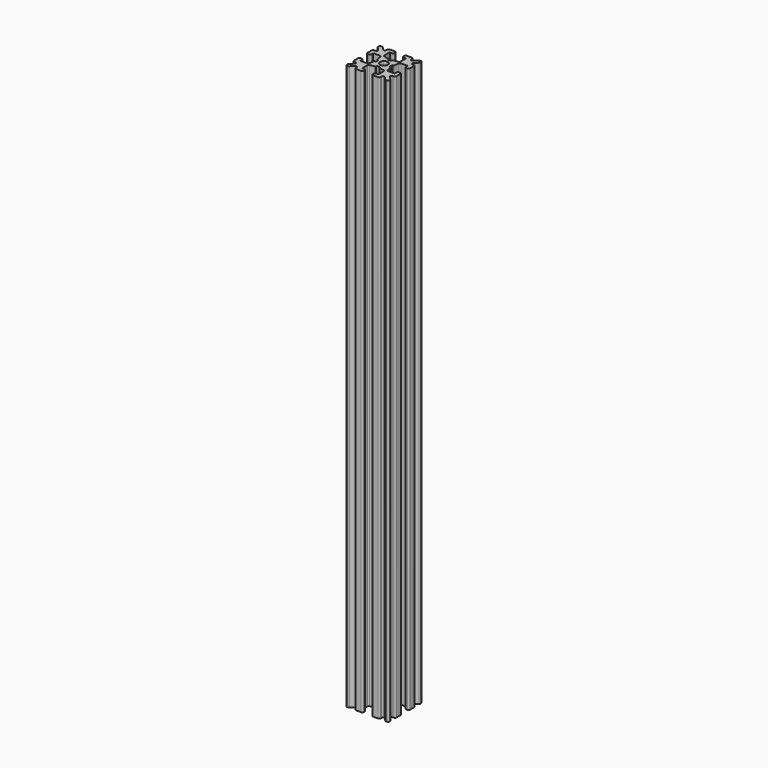
from build123d import *

# Parameters (mm, degrees)
F1_DEPTH = 200


with BuildPart() as f1:
    # F0 (on Top) → F1 (new body)
    with BuildSketch(Plane.XY):
        with BuildLine():
            Line((-7.5, -6.717157), (-7.5, -7))
            ThreePointArc((-7.5, -7), (-7.353553, -7.353553), (-7, -7.5))
            Line((-7, -7.5), (-6.717157, -7.5))
            ThreePointArc((-6.717157, -7.5), (-6.525816, -7.46194), (-6.363604, -7.353553))
            Line((-6.363604, -7.353553), (-5.256497, -6.246447))
            ThreePointArc((-5.256497, -6.246447), (-4.711602, -6.13806), (-4.402944, -6.6))
            Line((-4.402944, -6.6), (-4.402944, -7))
            ThreePointArc((-4.402944, -7), (-4.256497, -7.353553), (-3.902944, -7.5))
            Line((-3.902944, -7.5), (-2.1, -7.5))
            ThreePointArc((-2.1, -7.5), (-1.746447, -7.353553), (-1.6, -7))
            Line((-1.6, -7), (-1.6, -6.6))
            ThreePointArc((-1.6, -6.6), (-1.746447, -6.246447), (-2.1, -6.1))
            Line((-2.1, -6.1), (-2.7, -6.1))
            ThreePointArc((-2.7, -6.1), (-2.841421, -6.041421), (-2.9, -5.9))
            Line((-2.9, -5.9), (-2.9, -3.73793))
            ThreePointArc((-2.9, -3.73793), (-2.783634, -3.417266), (-2.488699, -3.24586))
            Line((-2.488699, -3.24586), (-0.73452, -2.929656))
            ThreePointArc((-0.73452, -2.929656), (-0.616547, -2.861094), (-0.57, -2.732828))
            Line((-0.57, -2.732828), (-0.57, -2.6))
            ThreePointArc((-0.57, -2.6), (-0.511421, -2.458579), (-0.37, -2.4))
            Line((-0.37, -2.4), (0, -2.4))
            Line((0, -2.4), (0.37, -2.4))
            ThreePointArc((0.37, -2.4), (0.511421, -2.458579), (0.57, -2.6))
            Line((0.57, -2.6), (0.57, -2.732828))
            ThreePointArc((0.57, -2.732828), (0.616547, -2.861094), (0.73452, -2.929656))
            Line((0.73452, -2.929656), (2.488699, -3.24586))
            ThreePointArc((2.488699, -3.24586), (2.783634, -3.417266), (2.9, -3.73793))
            Line((2.9, -3.73793), (2.9, -5.9))
            ThreePointArc((2.9, -5.9), (2.841421, -6.041421), (2.7, -6.1))
            Line((2.7, -6.1), (2.1, -6.1))
            ThreePointArc((2.1, -6.1), (1.746447, -6.246447), (1.6, -6.6))
            Line((1.6, -6.6), (1.6, -7))
            ThreePointArc((1.6, -7), (1.746447, -7.353553), (2.1, -7.5))
            Line((2.1, -7.5), (3.902944, -7.5))
            ThreePointArc((3.902944, -7.5), (4.256497, -7.353553), (4.402944, -7))
            Line((4.402944, -7), (4.402944, -6.6))
            ThreePointArc((4.402944, -6.6), (4.711602, -6.13806), (5.256497, -6.246447))
            Line((5.256497, -6.246447), (6.363604, -7.353553))
            ThreePointArc((6.363604, -7.353553), (6.525816, -7.46194), (6.717157, -7.5))
            Line((6.717157, -7.5), (7, -7.5))
            ThreePointArc((7, -7.5), (7.353553, -7.353553), (7.5, -7))
            Line((7.5, -7), (7.5, -6.717157))
            ThreePointArc((7.5, -6.717157), (7.46194, -6.525816), (7.353553, -6.363604))
            Line((7.353553, -6.363604), (6.246447, -5.256497))
            ThreePointArc((6.246447, -5.256497), (6.13806, -4.711602), (6.6, -4.402944))
            Line((6.6, -4.402944), (7, -4.402944))
            ThreePointArc((7, -4.402944), (7.353553, -4.256497), (7.5, -3.902944))
            Line((7.5, -3.902944), (7.5, -2.1))
            ThreePointArc((7.5, -2.1), (7.353553, -1.746447), (7, -1.6))
            Line((7, -1.6), (6.6, -1.6))
            ThreePointArc((6.6, -1.6), (6.246447, -1.746447), (6.1, -2.1))
            Line((6.1, -2.1), (6.1, -2.7))
            ThreePointArc((6.1, -2.7), (6.041421, -2.841421), (5.9, -2.9))
            Line((5.9, -2.9), (3.73793, -2.9))
            ThreePointArc((3.73793, -2.9), (3.417266, -2.783634), (3.24586, -2.488699))
            Line((3.24586, -2.488699), (2.929656, -0.73452))
            ThreePointArc((2.929656, -0.73452), (2.861094, -0.616547), (2.732828, -0.57))
            Line((2.732828, -0.57), (2.6, -0.57))
            ThreePointArc((2.6, -0.57), (2.458579, -0.511421), (2.4, -0.37))
            Line((2.4, -0.37), (2.4, 0))
            Line((2.4, 0), (2.4, 0.37))
            ThreePointArc((2.4, 0.37), (2.458579, 0.511421), (2.6, 0.57))
            Line((2.6, 0.57), (2.732828, 0.57))
            ThreePointArc((2.732828, 0.57), (2.861094, 0.616547), (2.929656, 0.73452))
            Line((2.929656, 0.73452), (3.24586, 2.488699))
            ThreePointArc((3.24586, 2.488699), (3.417266, 2.783634), (3.73793, 2.9))
            Line((3.73793, 2.9), (5.9, 2.9))
            ThreePointArc((5.9, 2.9), (6.041421, 2.841421), (6.1, 2.7))
            Line((6.1, 2.7), (6.1, 2.1))
            ThreePointArc((6.1, 2.1), (6.246447, 1.746447), (6.6, 1.6))
            Line((6.6, 1.6), (7, 1.6))
            ThreePointArc((7, 1.6), (7.353553, 1.746447), (7.5, 2.1))
            Line((7.5, 2.1), (7.5, 3.902944))
            ThreePointArc((7.5, 3.902944), (7.353553, 4.256497), (7, 4.402944))
            Line((7, 4.402944), (6.6, 4.402944))
            ThreePointArc((6.6, 4.402944), (6.13806, 4.711602), (6.246447, 5.256497))
            Line((6.246447, 5.256497), (7.353553, 6.363604))
            ThreePointArc((7.353553, 6.363604), (7.46194, 6.525816), (7.5, 6.717157))
            Line((7.5, 6.717157), (7.5, 7))
            ThreePointArc((7.5, 7), (7.353553, 7.353553), (7, 7.5))
            Line((7, 7.5), (6.717157, 7.5))
            ThreePointArc((6.717157, 7.5), (6.525816, 7.46194), (6.363604, 7.353553))
            Line((6.363604, 7.353553), (5.256497, 6.246447))
            ThreePointArc((5.256497, 6.246447), (4.711602, 6.13806), (4.402944, 6.6))
            Line((4.402944, 6.6), (4.402944, 7))
            ThreePointArc((4.402944, 7), (4.256497, 7.353553), (3.902944, 7.5))
            Line((3.902944, 7.5), (2.1, 7.5))
            ThreePointArc((2.1, 7.5), (1.746447, 7.353553), (1.6, 7))
            Line((1.6, 7), (1.6, 6.6))
            ThreePointArc((1.6, 6.6), (1.746447, 6.246447), (2.1, 6.1))
            Line((2.1, 6.1), (2.7, 6.1))
            ThreePointArc((2.7, 6.1), (2.841421, 6.041421), (2.9, 5.9))
            Line((2.9, 5.9), (2.9, 3.73793))
            ThreePointArc((2.9, 3.73793), (2.783634, 3.417266), (2.488699, 3.24586))
            Line((2.488699, 3.24586), (0.73452, 2.929656))
            ThreePointArc((0.73452, 2.929656), (0.616547, 2.861094), (0.57, 2.732828))
            Line((0.57, 2.732828), (0.57, 2.6))
            ThreePointArc((0.57, 2.6), (0.511421, 2.458579), (0.37, 2.4))
            Line((0.37, 2.4), (0, 2.4))
            Line((0, 2.4), (-0.37, 2.4))
            ThreePointArc((-0.37, 2.4), (-0.511421, 2.458579), (-0.57, 2.6))
            Line((-0.57, 2.6), (-0.57, 2.732828))
            ThreePointArc((-0.57, 2.732828), (-0.616547, 2.861094), (-0.73452, 2.929656))
            Line((-0.73452, 2.929656), (-2.488699, 3.24586))
            ThreePointArc((-2.488699, 3.24586), (-2.783634, 3.417266), (-2.9, 3.73793))
            Line((-2.9, 3.73793), (-2.9, 5.9))
            ThreePointArc((-2.9, 5.9), (-2.841421, 6.041421), (-2.7, 6.1))
            Line((-2.7, 6.1), (-2.1, 6.1))
            ThreePointArc((-2.1, 6.1), (-1.746447, 6.246447), (-1.6, 6.6))
            Line((-1.6, 6.6), (-1.6, 7))
            ThreePointArc((-1.6, 7), (-1.746447, 7.353553), (-2.1, 7.5))
            Line((-2.1, 7.5), (-3.902944, 7.5))
            ThreePointArc((-3.902944, 7.5), (-4.256497, 7.353553), (-4.402944, 7))
            Line((-4.402944, 7), (-4.402944, 6.6))
            ThreePointArc((-4.402944, 6.6), (-4.711602, 6.13806), (-5.256497, 6.246447))
            Line((-5.256497, 6.246447), (-6.363604, 7.353553))
            ThreePointArc((-6.363604, 7.353553), (-6.525816, 7.46194), (-6.717157, 7.5))
            Line((-6.717157, 7.5), (-7, 7.5))
            ThreePointArc((-7, 7.5), (-7.353553, 7.353553), (-7.5, 7))
            Line((-7.5, 7), (-7.5, 6.717157))
            ThreePointArc((-7.5, 6.717157), (-7.46194, 6.525816), (-7.353553, 6.363604))
            Line((-7.353553, 6.363604), (-6.246447, 5.256497))
            ThreePointArc((-6.246447, 5.256497), (-6.13806, 4.711602), (-6.6, 4.402944))
            Line((-6.6, 4.402944), (-7, 4.402944))
            ThreePointArc((-7, 4.402944), (-7.353553, 4.256497), (-7.5, 3.902944))
            Line((-7.5, 3.902944), (-7.5, 2.1))
            ThreePointArc((-7.5, 2.1), (-7.353553, 1.746447), (-7, 1.6))
            Line((-7, 1.6), (-6.6, 1.6))
            ThreePointArc((-6.6, 1.6), (-6.246447, 1.746447), (-6.1, 2.1))
            Line((-6.1, 2.1), (-6.1, 2.7))
            ThreePointArc((-6.1, 2.7), (-6.041421, 2.841421), (-5.9, 2.9))
            Line((-5.9, 2.9), (-3.73793, 2.9))
            ThreePointArc((-3.73793, 2.9), (-3.417266, 2.783634), (-3.24586, 2.488699))
            Line((-3.24586, 2.488699), (-2.929656, 0.73452))
            ThreePointArc((-2.929656, 0.73452), (-2.861094, 0.616547), (-2.732828, 0.57))
            Line((-2.732828, 0.57), (-2.6, 0.57))
            ThreePointArc((-2.6, 0.57), (-2.458579, 0.511421), (-2.4, 0.37))
            Line((-2.4, 0.37), (-2.4, 0))
            Line((-2.4, 0), (-2.4, -0.37))
            ThreePointArc((-2.4, -0.37), (-2.458579, -0.511421), (-2.6, -0.57))
            Line((-2.6, -0.57), (-2.732828, -0.57))
            ThreePointArc((-2.732828, -0.57), (-2.861094, -0.616547), (-2.929656, -0.73452))
            Line((-2.929656, -0.73452), (-3.24586, -2.488699))
            ThreePointArc((-3.24586, -2.488699), (-3.417266, -2.783634), (-3.73793, -2.9))
            Line((-3.73793, -2.9), (-5.9, -2.9))
            ThreePointArc((-5.9, -2.9), (-6.041421, -2.841421), (-6.1, -2.7))
            Line((-6.1, -2.7), (-6.1, -2.1))
            ThreePointArc((-6.1, -2.1), (-6.246447, -1.746447), (-6.6, -1.6))
            Line((-6.6, -1.6), (-7, -1.6))
            ThreePointArc((-7, -1.6), (-7.353553, -1.746447), (-7.5, -2.1))
            Line((-7.5, -2.1), (-7.5, -3.902944))
            ThreePointArc((-7.5, -3.902944), (-7.353553, -4.256497), (-7, -4.402944))
            Line((-7, -4.402944), (-6.6, -4.402944))
            ThreePointArc((-6.6, -4.402944), (-6.13806, -4.711602), (-6.246447, -5.256497))
            Line((-6.246447, -5.256497), (-7.353553, -6.363604))
            ThreePointArc((-7.353553, -6.363604), (-7.46194, -6.525816), (-7.5, -6.717157))
        make_face()
        with BuildLine():
            ThreePointArc((-0.954594, -0.954594), (-1.247237, -0.516623), (-1.35, 0))
            ThreePointArc((-1.35, 0), (-1.247237, 0.516623), (-0.954594, 0.954594))
            ThreePointArc((-0.954594, 0.954594), (-0.516623, 1.247237), (0, 1.35))
            ThreePointArc((0, 1.35), (0.516623, 1.247237), (0.954594, 0.954594))
            ThreePointArc((0.954594, 0.954594), (1.247237, 0.516623), (1.35, 0))
            ThreePointArc((1.35, 0), (1.247237, -0.516623), (0.954594, -0.954594))
            ThreePointArc((0.954594, -0.954594), (0.516623, -1.247237), (0, -1.35))
            ThreePointArc((0, -1.35), (-0.516623, -1.247237), (-0.954594, -0.954594))
        make_face(mode=Mode.SUBTRACT)
    extrude(amount=F1_DEPTH)


solid = f1.part
